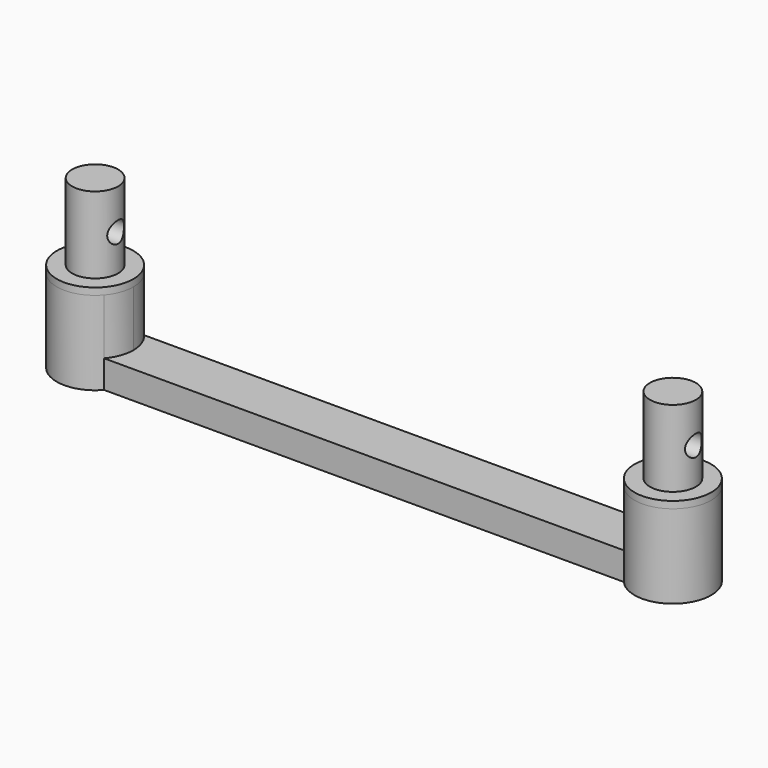
from build123d import *

# Parameters (mm, degrees)
F1_DEPTH = 6
F2_DEPTH = 2
F3_R     = 2.75
F3_R_2   = 2
F4_DEPTH = 0.5
F5_R     = 1.65
F6_DEPTH = 5.5
F8_R     = 0.75
F9_DEPTH = 24.501


with BuildPart() as f1:
    # F0 (on Top) → F1 (new body)
    with BuildSketch(Plane.XY):
        with BuildLine():
            Line((-18.75, 0), (-18, 0))
            ThreePointArc((-18, 0), (-18.1731878907, 0.9604891218), (-18.6709377114, 1.8))
            ThreePointArc((-18.6709377114, 1.8), (-18.8287396862, 1.967551475), (-19, 2.1213203436))
            ThreePointArc((-19, 2.1213203436), (-19.8202502877, 2.5880621075), (-20.75, 2.75))
            Line((-20.75, 2.75), (-20.75, 2))
            ThreePointArc((-20.75, 2), (-19.3357864376, 1.4142135624), (-18.75, 0))
        make_face()
        with BuildLine():
            ThreePointArc((-18.6709377114, -1.8), (-18.1731878907, -0.9604891218), (-18, 0))
            Line((-18, 0), (-18.75, 0))
            ThreePointArc((-18.75, 0), (-22.1642135624, -1.4142135624), (-20.75, 2))
            Line((-20.75, 2), (-20.75, 2.75))
            ThreePointArc((-20.75, 2.75), (-21.6797497123, 2.5880621075), (-22.5, 2.1213203436))
            ThreePointArc((-22.5, 2.1213203436), (-22.717551475, -1.9212603138), (-18.6709377114, -1.8))
        make_face()
    extrude(amount=F1_DEPTH)

    # F0 (on Top) → F2 (join)
    with BuildSketch(Plane.XY):
        with BuildLine():
            Line((-18, 0), (0, 0))
            Line((0, 0), (0, 1.8))
            Line((0, 1.8), (-18.6709377114, 1.8))
            ThreePointArc((-18.6709377114, 1.8), (-18.1731878907, 0.9604891218), (-18, 0))
        make_face()
        with BuildLine():
            Line((0, -1.8), (0, 0))
            Line((0, 0), (-18, 0))
            ThreePointArc((-18, 0), (-18.1731878907, -0.9604891218), (-18.6709377114, -1.8))
            Line((-18.6709377114, -1.8), (0, -1.8))
        make_face()
    extrude(amount=F2_DEPTH)

    # F3 (on face) → F4 (join)
    with BuildSketch(Plane.XY.offset(6)):
        with Locations((-20.75, 0)):
            Circle(F3_R)
        with Locations((-20.75, 0)):
            Circle(F3_R_2, mode=Mode.SUBTRACT)
        with Locations((-20.75, 0)):
            Circle(F3_R_2)
    extrude(amount=F4_DEPTH)

    # F5 (on face) → F6 (join)
    with BuildSketch(Plane.XY.offset(6.5)):
        with Locations((-20.75, 0)):
            Circle(F5_R)
    extrude(amount=F6_DEPTH)

    # F8 (on offset) → F9 (cut, through all)
    with BuildSketch(Plane.YZ.offset(1)):
        with Locations((0, 9.1180996969)):
            Circle(F8_R)
    extrude(amount=-F9_DEPTH, mode=Mode.SUBTRACT)

    # F10: F1 across plane


with BuildPart() as f1_1:
    add(f1.part)
    add(f1.part.mirror(Plane.YZ))


solid = f1_1.part
